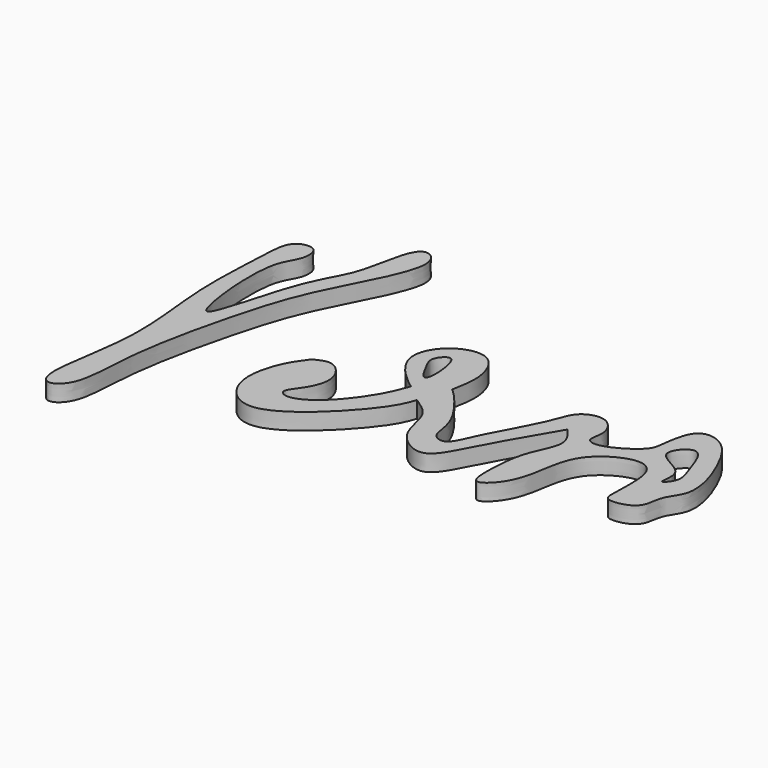
from build123d import *

# Parameters (mm, degrees)
F1_DEPTH = 2.54


with BuildPart() as f1:
    # F0 (on Top) → F1 (new body)
    with BuildSketch(Plane.XY):
        with BuildLine():
            add(Edge.make_bspline(
                [(-43.686453253, 4.8028510064), (-44.6606841946, 3.9096441285), (-44.723464485, -0.587577817), (-45.6036826761, -12.4923325971), (-42.9673695874, -26.0786915288), (-46.4779085278, -39.7018933768), (-44.3880035209, -42.4977184917), (-40.956771639, -40.0000180834), (-41.3528309592, -29.8393949126), (-37.5378292561, -13.448401209), (-34.2567519771, -2.8408162132), (-26.1188874573, 10.7463133716), (-30.3836751668, 13.8235883466), (-32.1634990518, 10.1162148129), (-32.9386636877, 3.1139438286), (-37.1530932912, -2.242304929), (-40.3744388968, -17.5963495737), (-42.2450591067, -13.1621734276), (-43.2797307991, -0.7426964884), (-40.290380328, 2.094208987), (-40.5734909715, 5.8374145253), (-42.9816820797, 5.4490083316), (-43.686453253, 4.8028510064)],
                knots=[0, 0, 0, 0, 0.0415383157, 0.1062888162, 0.1787050221, 0.2469932064, 0.2740549002, 0.3052102775, 0.3638390334, 0.4406633549, 0.5072181346, 0.5774501248, 0.6080041533, 0.6407809947, 0.6894044627, 0.7428554632, 0.809200286, 0.8353987219, 0.901958109, 0.9397850971, 0.969950649, 1, 1, 1, 1], degree=3))
        make_face()
    extrude(amount=F1_DEPTH)


with BuildPart() as f1b:
    # F0 (on Top) → F1, piece 2 (new body)
    with BuildSketch(Plane.XY):
        with BuildLine():
            add(Edge.make_bspline(
                [(-9.5396917313, -15.4907759279), (-9.9377005589, -16.6078474839), (-10.8926952978, -19.28818366), (-15.4103766155, -25.5119634288), (-19.5545451347, -27.2559577057), (-21.177523314, -26.0382139539), (-19.5350650899, -24.1634386927), (-17.3115282209, -20.0472785222), (-20.4274994166, -16.0070889676), (-22.3811492119, -16.9880919945), (-23.2713092119, -17.4350757152)],
                knots=[0, 0, 0, 0, 0.1320233287, 0.3167808742, 0.4506485682, 0.5236626564, 0.6188612667, 0.7593065407, 0.8903305545, 1, 1, 1, 1], degree=3))
            add(Edge.make_bspline(
                [(-23.2713092119, -17.4350757152), (-23.9896458665, -18.3819279235), (-25.6633456798, -20.5880611539), (-27.5182642988, -27.7569771409), (-20.6071471276, -34.9157470379), (-8.1968030367, -22.0211081755), (-7.1211944114, -18.8940244419), (-6.7447614856, -17.7996326238)],
                knots=[0, 0, 0, 0, 0.1489108509, 0.3469571846, 0.5410468538, 0.8393792393, 1, 1, 1, 1], degree=3))
            add(Edge.make_bspline(
                [(-6.7447614856, -17.7996326238), (-5.5943416759, -18.5417674052), (-3.1168452752, -20.1399980983), (-3.1212179259, -25.7520278077), (2.9167855471, -29.8071510139), (6.2173493456, -22.6567466119), (9.9868947845, -16.2404957233), (12.2121600434, -12.4528082088)],
                knots=[0, 0, 0, 0, 0.1584427274, 0.3412156879, 0.521580121, 0.7175757255, 1, 1, 1, 1], degree=3))
            add(Edge.make_bspline(
                [(12.2121600434, -12.4528082088), (13.0369519601, -13.4536667138), (14.7967317125, -15.589102933), (12.0000293732, -20.1183258485), (11.4150245482, -24.9940796492), (11.3262145442, -31.5893241962), (16.169076226, -26.8362269797), (16.4369478847, -20.1585969371), (18.5762460071, -15.7125265846), (23.9514510949, -12.935511836), (27.4583650512, -14.9516497575), (26.763530276, -22.0558308872), (27.0994347497, -24.1492912349), (32.1429093885, -23.2085834454), (31.7573717871, -19.0806150415), (34.8968047454, -16.2283572084), (32.4412888589, -8.3481803721), (28.9584107687, -2.9477475014), (24.1734832876, -2.6801714386), (23.5172075173, -8.5170522437), (23.1579065847, -10.6457064856), (18.0802583703, -13.8207429534), (15.3986485789, -13.0703384617), (16.6596997468, -10.4027912564), (14.4665917671, -6.8935763186), (10.1850382381, -8.1448638597), (9.3547013518, -12.3490710505), (4.6829431357, -20.0416963843), (3.1846296669, -24.70450803), (0.195803561, -23.8024052525), (0.7244458972, -19.524619346), (-4.3968572766, -13.5421982255), (-5.0150566621, -13.1544583098), (-5.1650181413, -13.0604011938)],
                knots=[0, 0, 0, 0, 0.0300816907, 0.0641824308, 0.1020081636, 0.1349236884, 0.16718817, 0.2092462545, 0.2441803033, 0.2810180154, 0.3088284807, 0.3502836219, 0.3702428922, 0.4010884462, 0.4306205503, 0.4609240189, 0.5050575336, 0.5452825751, 0.574056808, 0.6094179894, 0.6337456597, 0.6713481806, 0.6931592966, 0.7173055842, 0.7466071419, 0.7757202423, 0.8077800897, 0.8564720625, 0.8892150717, 0.9103381532, 0.9422545458, 0.9859922317, 1, 1, 1, 1], degree=3))
            add(Edge.make_bspline(
                [(-5.1650181413, -13.0604011938), (-4.8319497955, -11.33192255), (-4.1815998853, -7.9568917336), (-6.8346986094, -2.6681772967), (-12.8002513983, -4.3105495923), (-15.3483753623, -9.6403332041), (-11.8149862009, -13.7778507062), (-10.2279299203, -14.9726449483), (-9.5396917313, -15.4907759279)],
                knots=[0, 0, 0, 0, 0.1782287757, 0.3480098596, 0.5218332891, 0.6969856733, 0.8685956925, 1, 1, 1, 1], degree=3))
        make_face()
        with BuildLine():
            add(Edge.make_bspline(
                [(-10.2279299203, -6.862946786), (-9.2725082725, -7.5934993164), (-8.7591424819, -15.203657423), (-11.5519677347, -9.9259430261), (-12.4217292848, -8.1869215226), (-10.7849189466, -6.4370513256), (-10.2279299203, -6.862946786)],
                knots=[0, 0, 0, 0, 0.3403101774, 0.5836623385, 0.8016069295, 1, 1, 1, 1], degree=3))
        make_face(mode=Mode.SUBTRACT)
        with BuildLine():
            add(Edge.make_bspline(
                [(25.4576969892, -9.9009145051), (25.1954453653, -8.8144407397), (28.2815074123, -5.2963857931), (30.0443011149, -11.5491241473), (31.3659845376, -14.3042163053), (28.9256025439, -17.0497404759), (30.6621808012, -12.1353348287), (25.7759781036, -11.2195110335), (25.4576969892, -9.9009145051)],
                knots=[0, 0, 0, 0, 0.1670174119, 0.361612801, 0.5286817972, 0.6467809059, 0.7972996804, 1, 1, 1, 1], degree=3))
        make_face(mode=Mode.SUBTRACT)
    extrude(amount=F1_DEPTH)


solid = Compound([f1.part, f1b.part])
